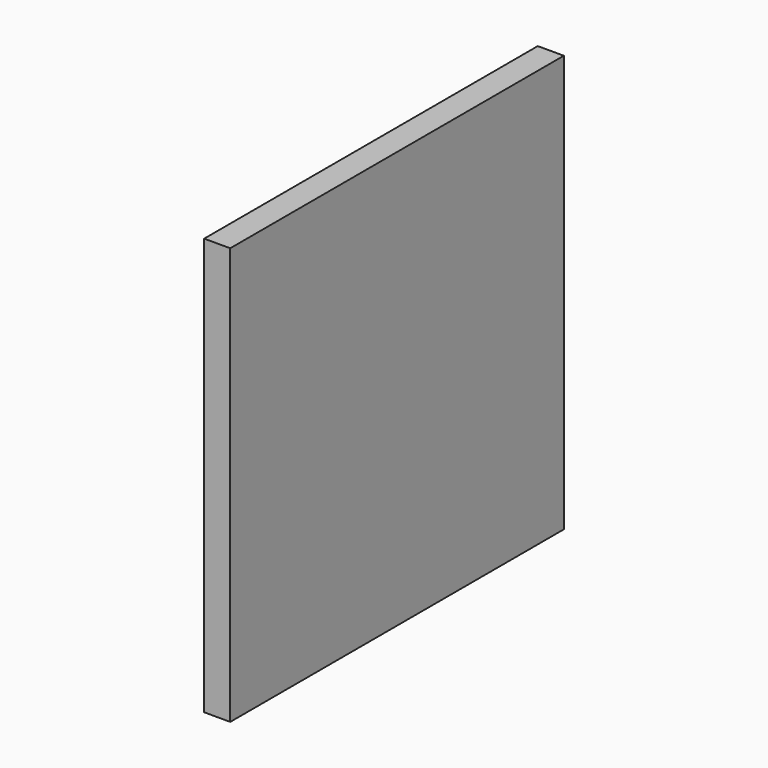
from build123d import *

# Parameters (mm, degrees)
F0_R     = 3.175
F1_DEPTH = 12.7
F2_SIZE  = 1.27
F3_R     = 6.35
F4_DEPTH = 25.4
F5_W     = 101.6
F5_H     = 101.6
F5_R     = 6.35
F6_DEPTH = 6.35


with BuildPart() as f1:
    # F0 (on Right) → F1 (new body)
    with BuildSketch(Plane.YZ):
        Circle(F0_R)
    extrude(amount=F1_DEPTH)

    # F2
    f2_edges = [f1.edges().sort_by_distance(p)[0] for p in [
        (0, -3.175, 0),
    ]]
    chamfer(f2_edges, length=F2_SIZE)

    # F3 (on face) → F4 (join)
    with BuildSketch(Plane.YZ.offset(12.7)):
        Circle(F3_R)
    extrude(amount=F4_DEPTH)

    # F5 (on face) → F6 (join)
    with BuildSketch(Plane.YZ.offset(38.1)):
        Rectangle(F5_W, F5_H)
        Circle(F5_R, mode=Mode.SUBTRACT)
        Circle(F5_R)
    extrude(amount=F6_DEPTH)


solid = f1.part
